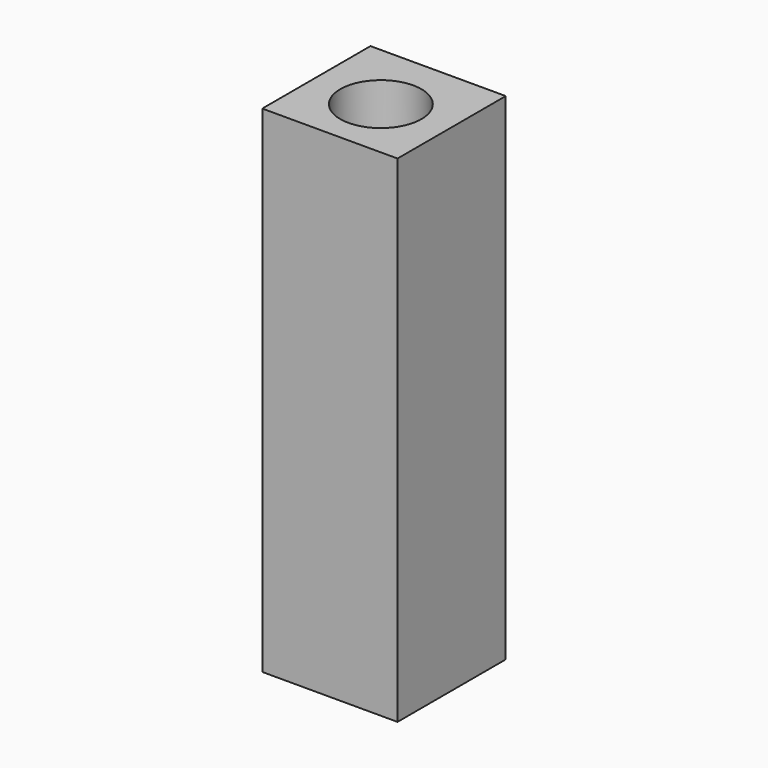
from build123d import *

# Parameters (mm, degrees)
F0_W     = 15
F0_H     = 15
F1_DEPTH = 55
F4_D     = 9
F4_DEPTH = 8.8
F4_TIP   = 2.7038727856
F5_D     = 9
F5_DEPTH = 8.8
F5_TIP   = 2.7038727856


with BuildPart() as f1:
    # F0 (on Top) → F1 (new body)
    with BuildSketch(Plane.XY):
        with Locations((0, 0.4354127725)):
            Rectangle(F0_W, F0_H)
    extrude(amount=F1_DEPTH)

    # F4
    with Locations(Plane(origin=(0, 0, 0), x_dir=(1, 0, 0), z_dir=(0, 0, -1))):
        with Locations((0, 0)):
            Hole(F4_D / 2, depth=F4_DEPTH)
            with Locations((0, 0, -(F4_DEPTH + F4_TIP / 2))):  # 118° drill point
                Cone(0, F4_D / 2, F4_TIP, mode=Mode.SUBTRACT)

    # F5
    with Locations(Plane.XY.offset(55)):
        with Locations((0, 0)):
            Hole(F5_D / 2, depth=F5_DEPTH)
            with Locations((0, 0, -(F5_DEPTH + F5_TIP / 2))):  # 118° drill point
                Cone(0, F5_D / 2, F5_TIP, mode=Mode.SUBTRACT)


solid = f1.part
